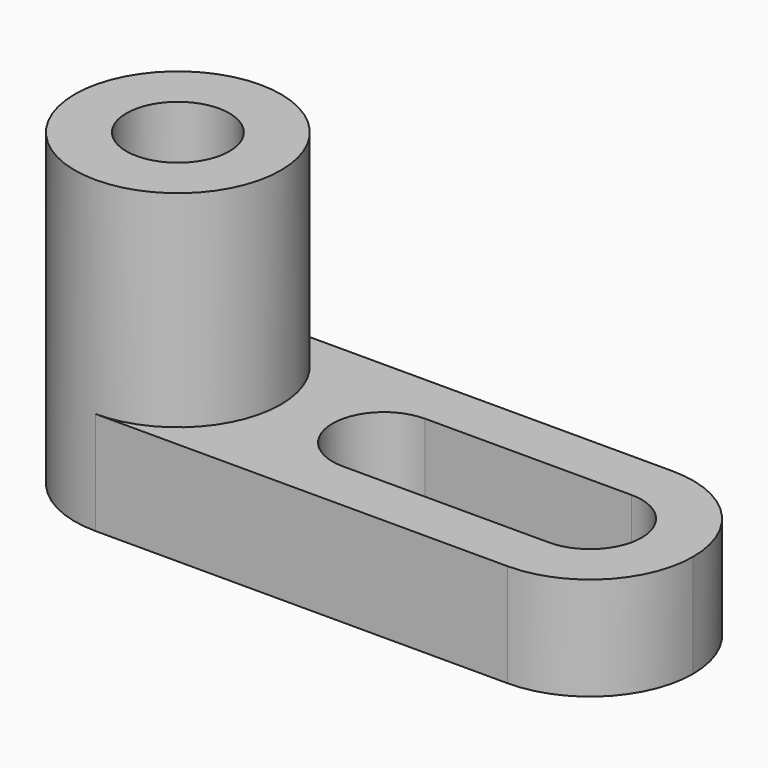
from build123d import *

# Parameters (mm, degrees)
F0_W      = 76.2
F0_H      = 25.4
F1_DEPTH  = 38.1
F2_W      = 50.8
F2_H      = 25.4
F3_DEPTH  = 25.4
F5_DEPTH  = 25.4
F7_DEPTH  = 25.4
F8_DEPTH  = 25.4
F10_DEPTH = 25.4
F12_DEPTH = 25.4


with BuildPart() as f1:
    # F0 (on Top) → F1 (new body)
    with BuildSketch(Plane.XY):
        with Locations((30.2353623112, 4.0315114893)):
            Rectangle(F0_W, F0_H)
    extrude(amount=F1_DEPTH)

    # F2 (on face) → F3 (cut)
    with BuildSketch(Plane.XZ.offset(8.6684885107)):
        with Locations((42.9353623112, 25.4)):
            Rectangle(F2_W, F2_H)
    extrude(amount=-F3_DEPTH, mode=Mode.SUBTRACT)

    # F4 (on face) → F5 (cut)
    with BuildSketch(Plane.XY.offset(38.1)):
        with BuildLine():
            ThreePointArc((11.1853623112, 4.0315114893), (4.8353623112, 10.3815114893), (-1.5146376888, 4.0315114893))
            Line((-1.5146376888, 4.0315114893), (11.1853623112, 4.0315114893))
        make_face()
        with BuildLine():
            Line((11.1853623112, 4.0315114893), (-1.5146376888, 4.0315114893))
            ThreePointArc((-1.5146376888, 4.0315114893), (4.8353623112, -2.3184885107), (11.1853623112, 4.0315114893))
        make_face()
    extrude(amount=-F5_DEPTH, mode=Mode.SUBTRACT)

    # F6 (on face) → F7 (cut)
    with BuildSketch(Plane.XY.offset(38.1)):
        with BuildLine():
            ThreePointArc((-7.8646376888, 4.0315114893), (-4.1448937926, 13.0117676276), (4.8353623599, 16.7315114893))
            Line((4.8353623599, 16.7315114893), (-7.8646376888, 16.7315114893))
            Line((-7.8646376888, 16.7315114893), (-7.8646376888, 4.0315114893))
        make_face()
        with BuildLine():
            Line((-7.8646376888, -8.6684885107), (4.8353623112, -8.6684885107))
            ThreePointArc((4.8353623112, -8.6684885107), (-4.1448938098, -4.9487446318), (-7.8646376888, 4.0315114893))
            Line((-7.8646376888, 4.0315114893), (-7.8646376888, -8.6684885107))
        make_face()
        with BuildLine():
            Line((17.5353623112, -8.6684885107), (17.5353623112, 4.0315114893))
            ThreePointArc((17.5353623112, 4.0315114893), (13.8156184323, -4.9487446318), (4.8353623112, -8.6684885107))
            Line((4.8353623112, -8.6684885107), (17.5353623112, -8.6684885107))
        make_face()
        with BuildLine():
            ThreePointArc((4.8353623599, 16.7315114893), (13.8156184495, 13.0117675932), (17.5353623112, 4.0315114893))
            Line((17.5353623112, 4.0315114893), (17.5353623112, 16.7315114893))
            Line((17.5353623112, 16.7315114893), (4.8353623599, 16.7315114893))
        make_face()
    extrude(amount=-F7_DEPTH, mode=Mode.SUBTRACT)

    # F8 (cut): faces of the model
    f8_faces = [f1.faces().sort_by_distance(p)[0] for p in [
        (-5.0278648642, 13.8947386647, 12.7),
        (-5.0278648642, -5.8317156861, 12.7),
    ]]
    extrude(f8_faces, amount=-F8_DEPTH, mode=Mode.SUBTRACT)

    # F9 (on face) → F10 (cut)
    with BuildSketch(Plane.XY.offset(12.7)):
        with BuildLine():
            Line((30.2353623112, -2.3184885107), (55.6353623112, -2.3184885107))
            ThreePointArc((55.6353623112, -2.3184885107), (61.9853623112, 4.0315114893), (55.6353623112, 10.3815114893))
            Line((55.6353623112, 10.3815114893), (30.2353623112, 10.3815114893))
            ThreePointArc((30.2353623112, 10.3815114893), (23.8853623112, 4.0315114893), (30.2353623112, -2.3184885107))
        make_face()
    extrude(amount=-F10_DEPTH, mode=Mode.SUBTRACT)

    # F11 (on face) → F12 (cut)
    with BuildSketch(Plane.XY.offset(12.7)):
        with BuildLine():
            ThreePointArc((55.6353623112, 16.7315114893), (64.6156184323, 13.0117676104), (68.3353623112, 4.0315114893))
            Line((68.3353623112, 4.0315114893), (68.3353623112, 16.7315114893))
            Line((68.3353623112, 16.7315114893), (55.6353623112, 16.7315114893))
        make_face()
        with BuildLine():
            Line((68.3353623112, -8.6684885107), (68.3353623112, 4.0315114893))
            ThreePointArc((68.3353623112, 4.0315114893), (64.6156183701, -4.948744694), (55.6353621352, -8.6684885107))
            Line((55.6353621352, -8.6684885107), (68.3353623112, -8.6684885107))
        make_face()
    extrude(amount=-F12_DEPTH, mode=Mode.SUBTRACT)


solid = f1.part
